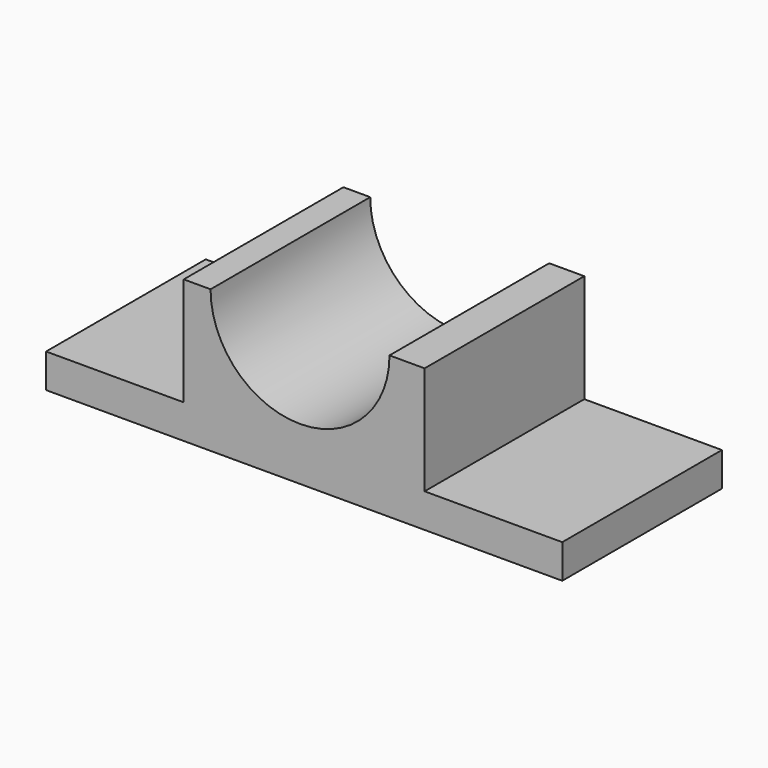
from build123d import *

# Parameters (mm, degrees)
F1_DEPTH = 147.32


with BuildPart() as f1:
    # F0 (on Front) → F1 (new body)
    with BuildSketch(Plane.XZ):
        with BuildLine():
            Line((-60.472151, -23.452618), (-162.072151, -23.452618))
            Line((-162.072151, -23.452618), (-162.072151, -48.547816))
            Line((-162.072151, -48.547816), (218.927849, -48.547816))
            Line((218.927849, -48.547816), (218.927849, -23.452618))
            Line((218.927849, -23.452618), (117.327849, -23.452618))
            Line((117.327849, -23.452618), (117.327849, 56.455784))
            Line((117.327849, 56.455784), (91.419852, 56.455784))
            ThreePointArc((91.419852, 56.455784), (25.379852, -9.584216), (-40.660148, 56.455784))
            Line((-40.660148, 56.455784), (-60.472151, 56.455784))
            Line((-60.472151, 56.455784), (-60.472151, -23.452618))
        make_face()
    extrude(amount=F1_DEPTH)


solid = f1.part
